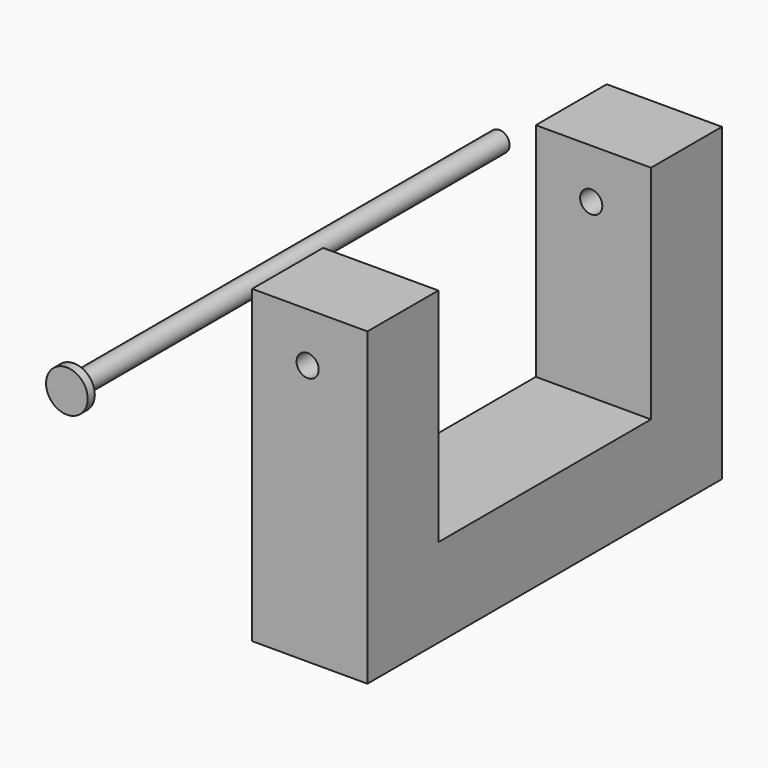
from build123d import *

# Parameters (mm, degrees)
F0_W          = 25.4
F0_H          = 63.5
F1_DEPTH      = 33.02
F3_D          = 6.35
F4_R          = 2.921
F5_DEPTH      = 76.2
F5_DEPTH_BACK = 76.2
F6_R          = 5.970295
F6_R_2        = 2.921
F7_DEPTH      = 2.54


with BuildPart() as f1:
    # F0 (on Right) → F1 (new body)
    with BuildSketch(Plane.YZ):
        with Locations((-39.484619, 31.442815)):
            Rectangle(F0_W, F0_H)
        Polygon((-26.784619, -0.307185), (-52.184619, -0.307185), (-52.184619, -25.707185), (74.815381, -25.707185), (74.815381, -0.307185), (49.415381, -0.307185), align=None)
        with Locations((62.115381, 31.442815)):
            Rectangle(F0_W, F0_H)
    extrude(amount=-F1_DEPTH)

    # F3 (through all)
    with Locations(Plane.XZ.offset(52.184619)):
        with Locations((-17.138124, 49.00733)):
            Hole(F3_D / 2)


with BuildPart() as f5:
    # F4 (on Front) → F5 (new body, two sides)
    with BuildSketch(Plane.XZ) as f5_sk:
        with Locations((-64.89379, 37.838664)):
            Circle(F4_R)
    extrude(amount=F5_DEPTH)
    extrude(f5_sk.sketch, amount=-F5_DEPTH_BACK)

    # F6 (on face) → F7 (join)
    with BuildSketch(Plane.XZ.offset(76.2)):
        with Locations((-64.89379, 37.838664)):
            Circle(F6_R)
        with Locations((-64.89379, 37.838664)):
            Circle(F6_R_2, mode=Mode.SUBTRACT)
        with Locations((-64.89379, 37.838664)):
            Circle(F6_R_2)
    extrude(amount=F7_DEPTH)


solid = Compound([f1.part, f5.part])
